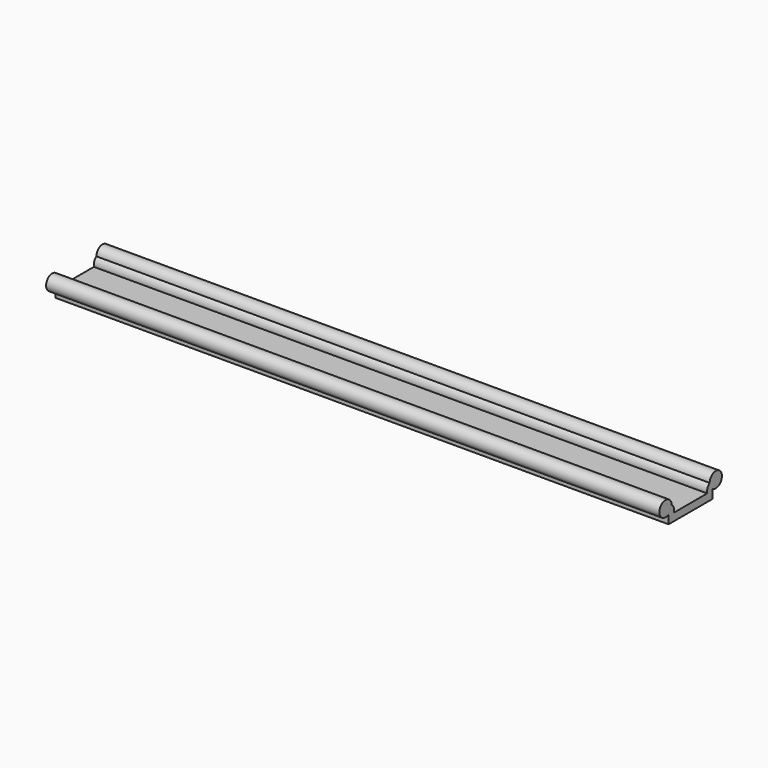
from build123d import *

# Parameters (mm, degrees)
F1_DEPTH = 400


with BuildPart() as f1:
    # F0 (on Right) → F1 (new body, symmetric)
    with BuildSketch(Plane.YZ):
        with BuildLine():
            ThreePointArc((36, 11.393311), (45.989188, 11.411984), (50.9784, 20.066))
            ThreePointArc((50.9784, 20.066), (41.121, 30.064983), (30.982467, 20.35117))
            ThreePointArc((30.982467, 20.35117), (32.25381, 15.179127), (36, 11.393311))
        make_face()
        with BuildLine():
            ThreePointArc((36, 11.393311), (32.25381, 15.179127), (30.982467, 20.35117))
            ThreePointArc((30.982467, 20.35117), (27.450179, 15.715402), (26.983, 9.906))
            Line((26.983, 9.906), (0, 9.906))
            Line((0, 9.906), (0, 0))
            Line((0, 0), (36, 0))
            Line((36, 0), (36, 11.393311))
        make_face()
        with BuildLine():
            Line((0, 0), (0, 9.906))
            Line((0, 9.906), (-26.983, 9.906))
            ThreePointArc((-26.983, 9.906), (-27.450179, 15.715402), (-30.982467, 20.35117))
            ThreePointArc((-30.982467, 20.35117), (-30.979417, 20.2086), (-30.9784, 20.066))
            ThreePointArc((-30.9784, 20.066), (-32.324384, 15.055212), (-36, 11.393311))
            Line((-36, 11.393311), (-36, 0))
            Line((-36, 0), (0, 0))
        make_face()
        with BuildLine():
            ThreePointArc((-30.9784, 20.066), (-30.979417, 20.2086), (-30.982467, 20.35117))
            ThreePointArc((-30.982467, 20.35117), (-49.70299, 24.952873), (-36, 11.393311))
            ThreePointArc((-36, 11.393311), (-32.324384, 15.055212), (-30.9784, 20.066))
        make_face()
    extrude(amount=F1_DEPTH, both=True)


solid = f1.part
